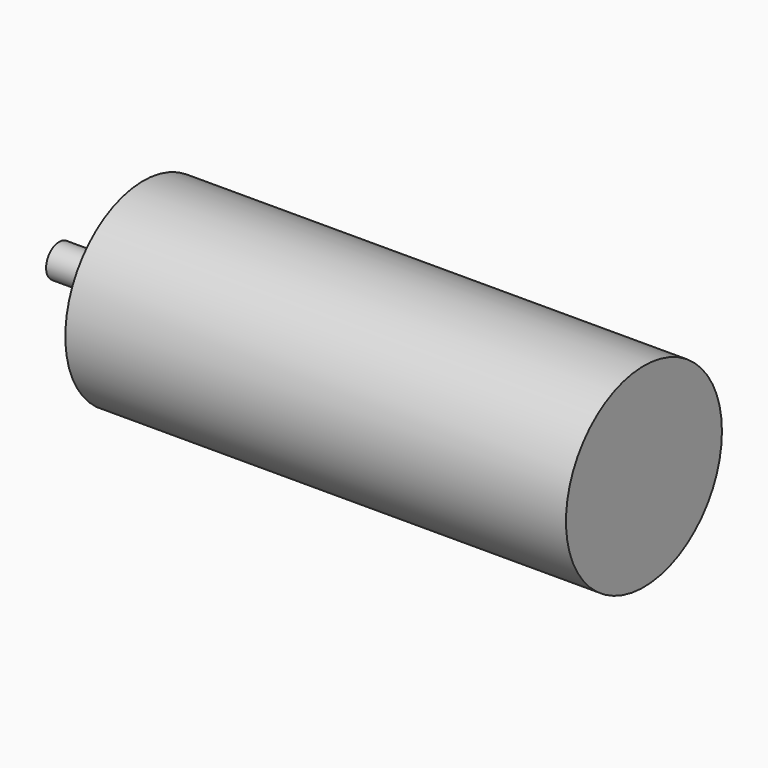
from build123d import *

# Parameters (mm, degrees)
SKETCH_R           = 17.85
PAD_DEPTH          = 91.7
SKETCH001_R        = 11
PAD001_DEPTH       = 2
SKETCH002_R        = 3
PAD002_DEPTH       = 13.4
SKETCH003_R        = 1.5
POCKET_DEPTH       = 10
POLARPATTERN_COUNT = 4


with BuildPart() as part:
    # Sketch → Pad (new body)
    with BuildSketch(Plane.YZ):
        Circle(SKETCH_R)
    extrude(amount=PAD_DEPTH)

    # Sketch001 → Pad001 (join)
    with BuildSketch(Plane.YZ):
        Circle(SKETCH001_R)
    extrude(amount=-PAD001_DEPTH)

    # Sketch002 (on Face5 of Pad001) → Pad002 (join)
    with BuildSketch(Plane(origin=(-2, 0, 0), x_dir=(0, -1, 0), z_dir=(-1, 0, 0))):
        Circle(SKETCH002_R)
    extrude(amount=PAD002_DEPTH)

    # Sketch003 → Pocket (cut)
    with BuildSketch(Plane.YZ):
        with Locations((0, 14)):
            Circle(SKETCH003_R)
    pocket = extrude(amount=POCKET_DEPTH, mode=Mode.SUBTRACT)

    # PolarPattern: Pocket ×4 about axis
    polarpattern_axis = Axis((0, 0, 0), (1, 0, 0))
    for i in range(1, POLARPATTERN_COUNT):
        add(pocket.rotate(polarpattern_axis, i * 360 / POLARPATTERN_COUNT), mode=Mode.SUBTRACT)


solid = part.part
